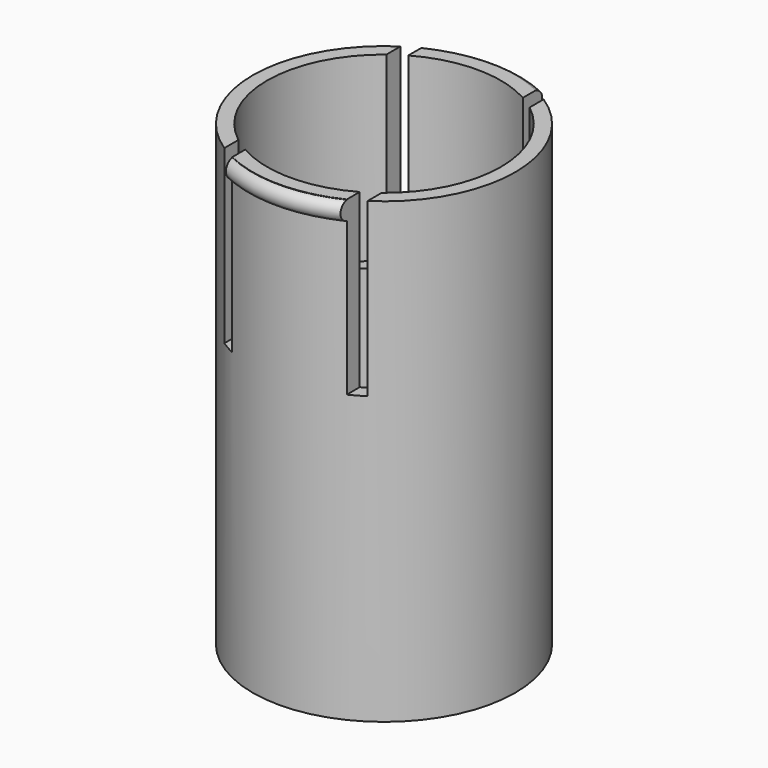
from build123d import *

# Parameters (mm, degrees)
BOX_W                    = 3
BOX_H                    = 90
BOX_DEPTH                = 40
BOX001_W                 = 3
BOX001_H                 = 90
BOX001_DEPTH             = 40
TORUS_R                  = 2
TORUS_ANGLE              = 60
TORUS_PLACEMENT_ANGLE    = 60
TORUS001_R               = 2
TORUS001_ANGLE           = 60
TORUS001_PLACEMENT_ANGLE = 240
CYLINDER001_R            = 24.5
CYLINDER001_DEPTH        = 55
CYLINDER002_R            = 24.5
CYLINDER002_DEPTH        = 60
CYLINDER008_R            = 22
CYLINDER008_DEPTH        = 90
CYLINDER_R               = 27.5
CYLINDER_DEPTH           = 96


with BuildPart() as cube:
    # Box → Box (new body)
    with BuildSketch(Plane(origin=(12, -40, 60), x_dir=(1, 0, 0), z_dir=(0, 0, 1))):
        with Locations((1.5, 45)):
            Rectangle(BOX_W, BOX_H)
    extrude(amount=BOX_DEPTH)


with BuildPart() as fusion002:
    # Box001 → Box001 (new body)
    with BuildSketch(Plane(origin=(-15, -40, 60), x_dir=(1, 0, 0), z_dir=(0, 0, 1))):
        with Locations((1.5, 45)):
            Rectangle(BOX001_W, BOX001_H)
    extrude(amount=BOX001_DEPTH)

    # Fusion002: union Cube
    add(cube.part)


with BuildPart() as torus:
    # Torus → Torus (revolve)
    with BuildSketch(Plane.XZ):
        with Locations((27, 0)):
            Circle(TORUS_R)
    revolve(axis=Axis((0, 0, 0), (0, 0, 1)), revolution_arc=TORUS_ANGLE)


with BuildPart() as torus_1:
    # Torus placement: moved
    add(torus.part.moved(Location((0, 0, 94))).rotate(Axis((0, 0, 94), (0, 0, 1)), TORUS_PLACEMENT_ANGLE))


with BuildPart() as torus001:
    # Torus001 → Torus001 (revolve)
    with BuildSketch(Plane.XZ):
        with Locations((27, 0)):
            Circle(TORUS001_R)
    revolve(axis=Axis((0, 0, 0), (0, 0, 1)), revolution_arc=TORUS001_ANGLE)


with BuildPart() as torus001_1:
    # Torus001 placement: moved
    add(torus001.part.moved(Location((0, 0, 94))).rotate(Axis((0, 0, 94), (0, 0, 1)), TORUS001_PLACEMENT_ANGLE))


with BuildPart() as cylinder001:
    # Cylinder001 → Cylinder001 (new body)
    with BuildSketch(Plane.XY.offset(58)):
        Circle(CYLINDER001_R)
    extrude(amount=CYLINDER001_DEPTH)


with BuildPart() as fusion:
    # Cylinder002 → Cylinder002 (new body)
    with BuildSketch(Plane.XY.offset(58)):
        Circle(CYLINDER002_R)
    extrude(amount=CYLINDER002_DEPTH)

    # Fusion: union Cylinder001
    add(cylinder001.part)


with BuildPart() as cylinder008:
    # Cylinder008 → Cylinder008 (new body)
    with BuildSketch(Plane.XY):
        Circle(CYLINDER008_R)
    extrude(amount=CYLINDER008_DEPTH)


with BuildPart() as main_bit:
    # Cylinder → Cylinder (new body)
    with BuildSketch(Plane.XY):
        Circle(CYLINDER_R)
    extrude(amount=CYLINDER_DEPTH)

    # Cut: cut Cylinder008
    add(cylinder008.part, mode=Mode.SUBTRACT)

    # Cut004: cut Fusion
    add(fusion.part, mode=Mode.SUBTRACT)

    # Fusion001: union Torus, Torus001
    add(torus_1.part)
    add(torus001_1.part)

    # Cut007: cut Fusion002
    add(fusion002.part, mode=Mode.SUBTRACT)


solid = main_bit.part
